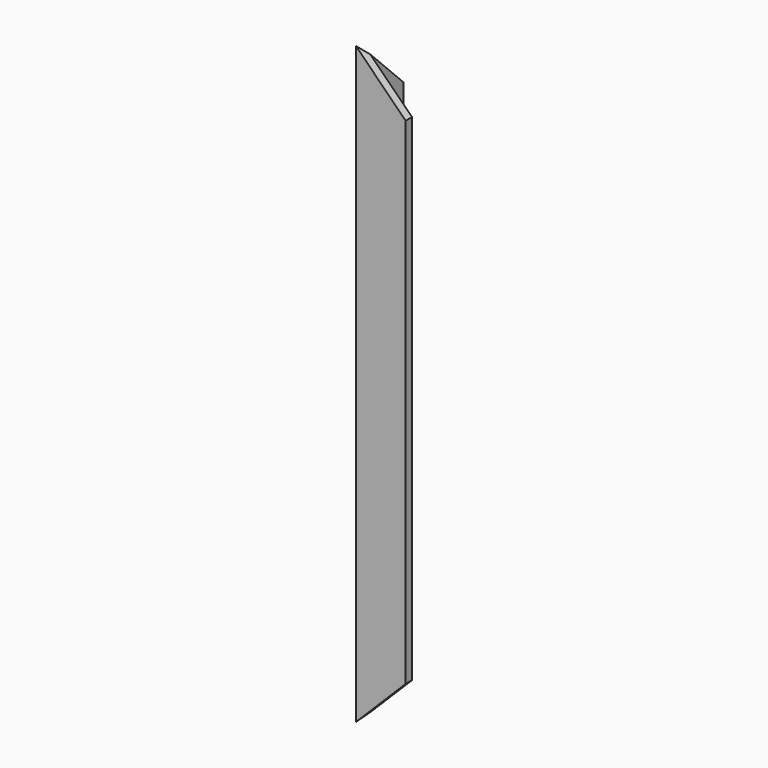
from build123d import *

# Parameters (mm, degrees)
F1_DEPTH = 600
F3_DEPTH = 8
F5_DEPTH = 8
F7_DEPTH = 8
F9_DEPTH = 8


with BuildPart() as f1:
    # F0 (on Top) → F1 (new body)
    with BuildSketch(Plane.XY):
        Polygon((0, 50), (0, 0), (50, 0), (50, 8), (8, 8), (8, 50), align=None)
    extrude(amount=F1_DEPTH)

    # F2 (on face) → F3 (cut, through all)
    with BuildSketch(Plane.XZ):
        Polygon((50, 600), (0, 600), (50, 550), align=None)
    extrude(amount=-F3_DEPTH, mode=Mode.SUBTRACT)

    # F4 (on face) → F5 (cut, through all)
    with BuildSketch(Plane(origin=(0, 0, 0), x_dir=(0, -1, 0), z_dir=(-1, 0, 0))):
        Polygon((-50, 550), (0, 600), (-8, 600), (-50, 600), align=None)
    extrude(amount=-F5_DEPTH, mode=Mode.SUBTRACT)

    # F6 (on face) → F7 (cut, through all)
    with BuildSketch(Plane.XZ):
        Polygon((50, 50), (0, 0), (50, 0), align=None)
    extrude(amount=-F7_DEPTH, mode=Mode.SUBTRACT)

    # F8 (on face) → F9 (cut, through all)
    with BuildSketch(Plane(origin=(0, 0, 0), x_dir=(0, -1, 0), z_dir=(-1, 0, 0))):
        Polygon((-8, 0), (0, 0), (-50, 50), (-50, 0), align=None)
    extrude(amount=-F9_DEPTH, mode=Mode.SUBTRACT)


solid = f1.part
